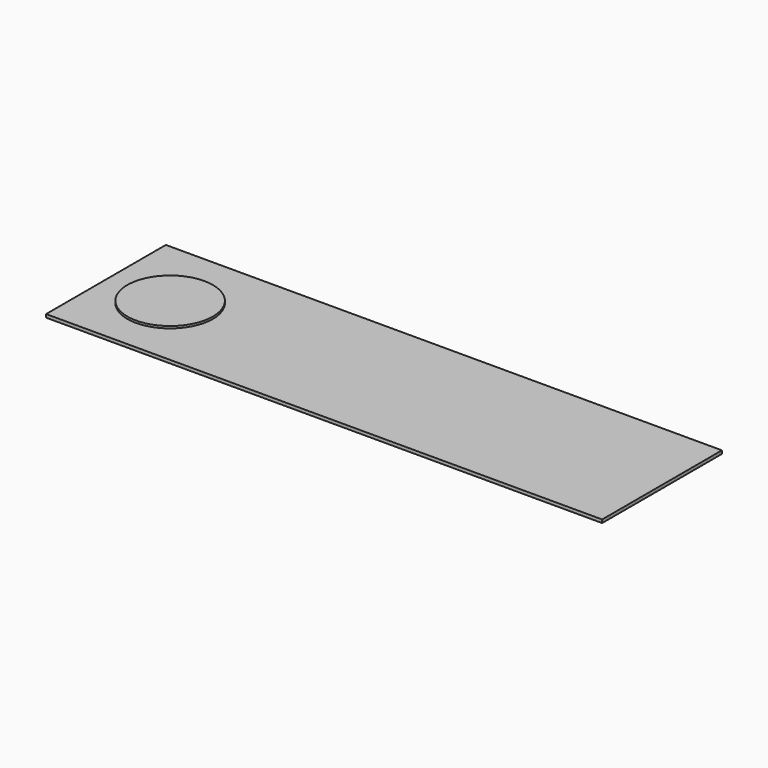
from build123d import *

# Parameters (mm, degrees)
F0_W     = 26
F0_H     = 7
F2_DEPTH = 0.15
F1_R     = 2
F3_DEPTH = 0.1


with BuildPart() as f2:
    # F0 (on Top) → F2 (new body)
    with BuildSketch(Plane.XY):
        Rectangle(F0_W, F0_H)
    extrude(amount=-F2_DEPTH)

    # F1 (on Top) → F3 (join)
    with BuildSketch(Plane.XY):
        with Locations((-10, 0)):
            Circle(F1_R)
    extrude(amount=F3_DEPTH)


solid = f2.part
